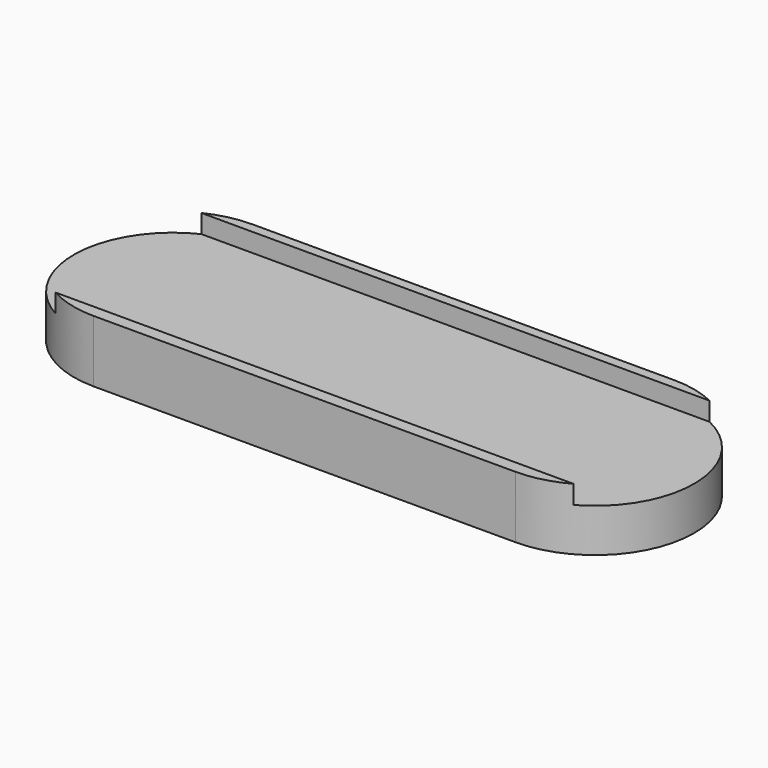
from build123d import *

# Parameters (mm, degrees)
PAD_DEPTH       = 5
SKETCH001_W     = 80
SKETCH001_H     = 14.2
POCKET_DEPTH    = 1.5
SKETCH002_R     = 2.3
POCKET001_DEPTH = 3


with BuildPart() as part:
    # Sketch → Pad (new body)
    with BuildSketch(Plane.XY):
        with BuildLine():
            ThreePointArc((8, 16), (0, 8), (8, 0))
            Line((42, 0), (8, 0))
            ThreePointArc((42, 0), (50, 8), (42, 16))
            Line((8, 16), (42, 16))
        make_face()
    extrude(amount=PAD_DEPTH)

    # Sketch001 (on Face6 of Pad) → Pocket (cut)
    with BuildSketch(Plane.XY.offset(5)):
        with Locations((40, 8.1)):
            Rectangle(SKETCH001_W, SKETCH001_H)
    extrude(amount=-POCKET_DEPTH, mode=Mode.SUBTRACT)

    # Sketch002 (on Face2 of Pocket) → Pocket001 (cut)
    with BuildSketch(Plane(origin=(0, 0, 0), x_dir=(1, 0, 0), z_dir=(0, 0, -1))):
        with Locations((8, -8)):
            Circle(SKETCH002_R)
    extrude(amount=-POCKET001_DEPTH, mode=Mode.SUBTRACT)


solid = part.part
